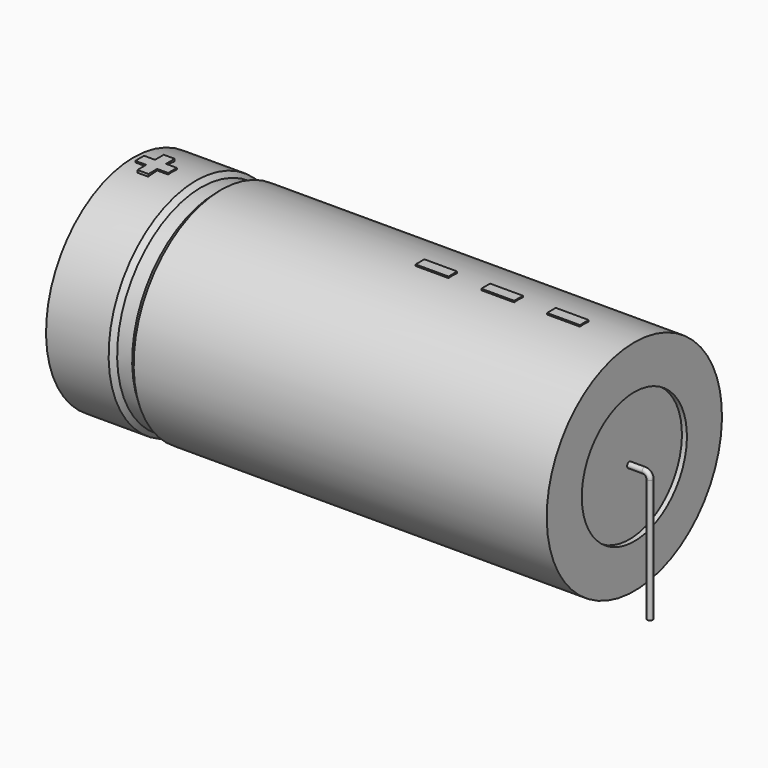
from build123d import *

# Parameters (mm, degrees)
SKETCH_R    = 0.45
SKETCH004_W = 5.25
SKETCH004_H = 1.75
PAD_DEPTH   = 17.675


with BuildPart() as sweep_body:
    # Sweep: sweep along a path in Sketch001
    with BuildLine(Plane.XZ) as sweep_path:
        Line((0, -3), (0, 16.7))
        ThreePointArc((0, 16.7), (0.263607, 17.3364), (0.90001, 17.6))
        Line((0.90001, 17.6), (84.1, 17.6))
        ThreePointArc((84.1, 17.6), (84.736396, 17.336396), (85, 16.7))
        Line((85, 16.7), (85, -3))
    # Sketch → Sweep (sweep)
    with BuildSketch(Plane.XY.offset(-2)):
        Circle(SKETCH_R)
    sweep(path=sweep_path.line)


with BuildPart() as revolution:
    # Sketch002 → Revolution (revolve)
    with BuildSketch(Plane.XZ):
        Polygon((2.5, 35.1), (2.5, 28.1), (82.5, 28.1), (82.5, 35.1), (16.5, 35.1), (15.7, 34.4), (13.3, 34.4), (12.5, 35.1), align=None)
    revolve(axis=Axis((6.97588, 0, 17.6), (1, 0, 0)))


with BuildPart() as revolution001:
    # Sketch003 → Revolution001 (revolve)
    with BuildSketch(Plane.XZ):
        Polygon((3.3, 34.4), (7.3, 34.4), (7.3, 19.35), (77.7, 19.35), (77.7, 34.4), (81.7, 34.4), (81.7, 17.6), (3.3, 17.6), align=None)
    revolve(axis=Axis((6.97588, 0, 17.6), (1, 0, 0)))


with BuildPart() as pad:
    # Sketch004 → Pad (new body)
    with BuildSketch(Plane.XY.offset(17.6)):
        with Locations((71.875, 0)):
            Rectangle(SKETCH004_W, SKETCH004_H)
        with Locations((61.375, 0)):
            Rectangle(SKETCH004_W, SKETCH004_H)
        with Locations((50.875, 0)):
            Rectangle(SKETCH004_W, SKETCH004_H)
        Polygon((5.21, 0.875), (3.46, 0.875), (3.46, -0.875), (5.21, -0.875), (5.21, -2.625), (6.96, -2.625), (6.96, -0.875), (8.71, -0.875), (8.71, 0.875), (6.96, 0.875), (6.96, 2.625), (5.21, 2.625), align=None)
    extrude(amount=PAD_DEPTH)


solid = Compound([sweep_body.part, revolution.part, revolution001.part, pad.part])
